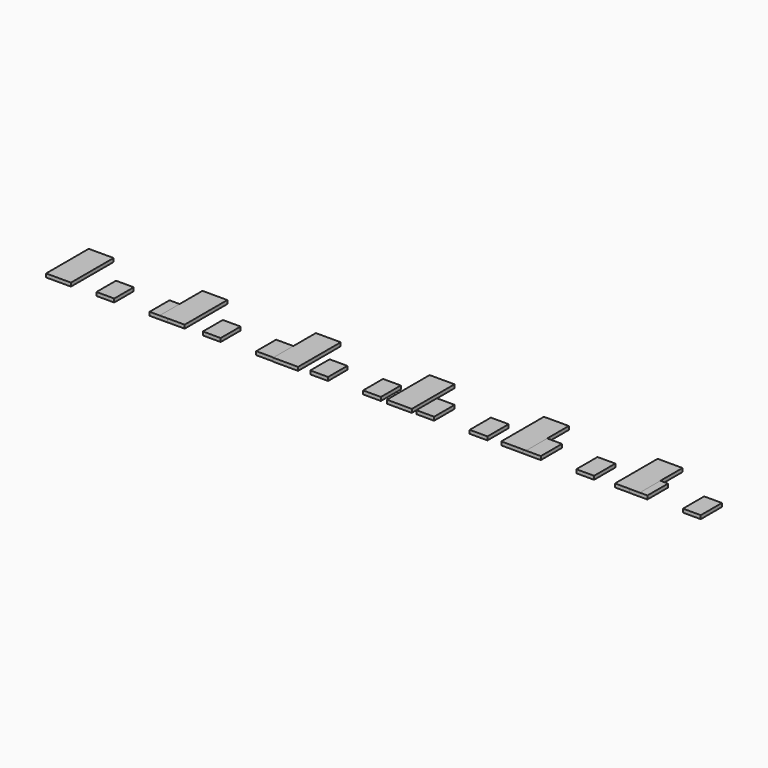
from build123d import *

# Parameters (mm, degrees)
F0_W     = 1.27
F0_H     = 1.837842
F0_H_2   = 1.778
F0_H_3   = 1.720792
F0_H_4   = 1.743025
F0_H_5   = 1.89175
F0_H_6   = 1.844558
F2_DEPTH = 0.254
F1_W     = 1.778
F1_H     = 3.81
F3_DEPTH = 0.254


with BuildPart() as f2:
    # F0 (on Top) → F2 (new body)
    with BuildSketch(Plane.XY):
        with Locations((1.648531, -11.778896)):
            Rectangle(F0_W, F0_H)
        with Locations((-2.161469, -11.79995)):
            Rectangle(F0_W, F0_H_2)
        with Locations((-5.971469, -11.782551)):
            Rectangle(F0_W, F0_H_3)
        with Locations((-9.781469, -11.822966)):
            Rectangle(F0_W, F0_H_2)
        with Locations((-13.591469, -11.822966)):
            Rectangle(F0_W, F0_H_2)
        with Locations((-17.401469, -11.822966)):
            Rectangle(F0_W, F0_H_2)
        with Locations((-21.211469, -11.822523)):
            Rectangle(F0_W, F0_H_4)
        with Locations((5.458531, -11.748161)):
            Rectangle(F0_W, F0_H_5)
        with Locations((9.268531, -11.748161)):
            Rectangle(F0_W, F0_H_5)
        with Locations((13.078531, -11.748161)):
            Rectangle(F0_W, F0_H_5)
        with Locations((16.888531, -11.771757)):
            Rectangle(F0_W, F0_H_6)
        with Locations((20.698531, -11.748161)):
            Rectangle(F0_W, F0_H_5)
    extrude(amount=F2_DEPTH)


with BuildPart() as f3:
    # F1 (on Top) → F3 (new body)
    with BuildSketch(Plane.XY):
        with Locations((-24.55143, -10.796406)):
            Rectangle(F1_W, F1_H)
        with Locations((-16.42343, -10.800737)):
            Rectangle(F1_W, F1_H)
        with Locations((-8.29543, -10.831238)):
            Rectangle(F1_W, F1_H)
        with Locations((-0.16743, -10.831238)):
            Rectangle(F1_W, F1_H)
        with Locations((16.08857, -10.780454)):
            Rectangle(F1_W, F1_H)
        with Locations((7.96057, -10.779837)):
            Rectangle(F1_W, F1_H)
    extrude(amount=F3_DEPTH)


solid = Compound([f2.part, f3.part])
